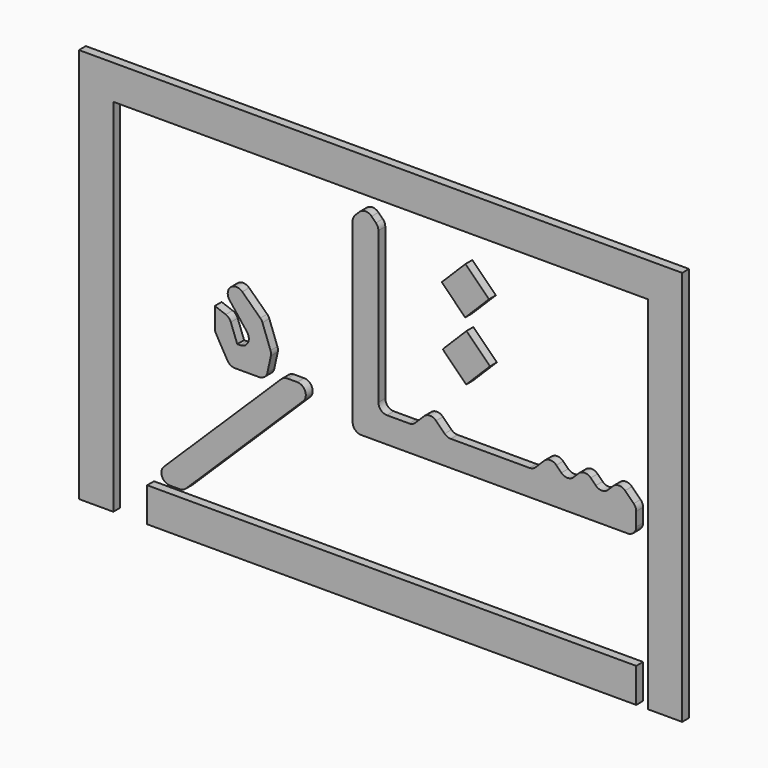
from build123d import *

# Parameters (mm, degrees)
F1_DEPTH = 5
F0_W     = 310.97637631
F0_H     = 20
F0_W_2   = 284.5448851585
F2_SCALE = 0.5


with BuildPart() as f1:
    # F0 (on Front) → F1 (new body)
    with BuildSketch(Plane.XZ):
        with BuildLine():
            Line((0, -10), (0, -2.0710678119))
            ThreePointArc((0, -2.0710678119), (-0.3806023374, -0.15765065), (-1.4644660941, 1.4644660941))
            Line((-1.4644660941, 1.4644660941), (-6.4644660941, 6.4644660941))
            ThreePointArc((-6.4644660941, 6.4644660941), (-10, 7.9289321881), (-13.5355339059, 6.4644660941))
            Line((-13.5355339059, 6.4644660941), (-16.4644660941, 3.5355339059))
            ThreePointArc((-16.4644660941, 3.5355339059), (-20, 2.0710678119), (-23.5355339059, 3.5355339059))
            Line((-23.5355339059, 3.5355339059), (-26.4644660941, 6.4644660941))
            ThreePointArc((-26.4644660941, 6.4644660941), (-30, 7.9289321881), (-33.5355339059, 6.4644660941))
            Line((-33.5355339059, 6.4644660941), (-36.4644660941, 3.5355339059))
            ThreePointArc((-36.4644660941, 3.5355339059), (-40, 2.0710678119), (-43.5355339059, 3.5355339059))
            Line((-43.5355339059, 3.5355339059), (-46.4644660941, 6.4644660941))
            ThreePointArc((-46.4644660941, 6.4644660941), (-50, 7.9289321881), (-53.5355339059, 6.4644660941))
            Line((-53.5355339059, 6.4644660941), (-58.5355339059, 1.4644660941))
            ThreePointArc((-58.5355339059, 1.4644660941), (-60.15765065, 0.3806023374), (-62.0710678119, 0))
            Line((-62.0710678119, 0), (-107.9289321881, 0))
            ThreePointArc((-107.9289321881, 0), (-109.84234935, 0.3806023374), (-111.4644660941, 1.4644660941))
            Line((-111.4644660941, 1.4644660941), (-116.4644660941, 6.4644660941))
            ThreePointArc((-116.4644660941, 6.4644660941), (-120, 7.9289321881), (-123.5355339059, 6.4644660941))
            Line((-123.5355339059, 6.4644660941), (-128.5355339059, 1.4644660941))
            ThreePointArc((-128.5355339059, 1.4644660941), (-130.15765065, 0.3806023374), (-132.0710678119, 0))
            Line((-132.0710678119, 0), (-145, 0))
            ThreePointArc((-145, 0), (-148.5355339059, 1.4644660941), (-150, 5))
            Line((-150, 5), (-150, 92.9289321881))
            ThreePointArc((-150, 92.9289321881), (-150.3806023374, 94.84234935), (-151.4644660941, 96.4644660941))
            Line((-151.4644660941, 96.4644660941), (-153.9644660941, 98.9644660941))
            ThreePointArc((-153.9644660941, 98.9644660941), (-157.5, 100.4289321881), (-161.0355339059, 98.9644660941))
            Line((-161.0355339059, 98.9644660941), (-163.5355339059, 96.4644660941))
            ThreePointArc((-163.5355339059, 96.4644660941), (-164.6193976626, 94.84234935), (-165, 92.9289321881))
            Line((-165, 92.9289321881), (-165, -10))
            ThreePointArc((-165, -10), (-163.5355339059, -13.5355339059), (-160, -15))
            Line((-160, -15), (-5, -15))
            ThreePointArc((-5, -15), (-1.4644660941, -13.5355339059), (0, -10))
        make_face()
    extrude(amount=F1_DEPTH)


with BuildPart() as f1b:
    # F0 (on Front) → F1, piece 2 (new body)
    with BuildSketch(Plane.XZ):
        with BuildLine():
            ThreePointArc((-193.7254233377, -8.5676432473), (-192.6004753719, -3.1076755348), (-197.2285536036, 0))
            Line((-197.2285536036, 0), (-202.9556044966, 0))
            ThreePointArc((-202.9556044966, 0), (-204.8479289618, -0.3719217683), (-206.4587347625, -1.4323567527))
            Line((-206.4587347625, -1.4323567527), (-274.7627281037, -68.501222602))
            ThreePointArc((-274.7627281037, -68.501222602), (-275.8876760695, -73.9611903145), (-271.2595978379, -77.0688658493))
            Line((-271.2595978379, -77.0688658493), (-265.5325469448, -77.0688658493))
            ThreePointArc((-265.5325469448, -77.0688658493), (-263.6402224796, -76.696944081), (-262.029416679, -75.6365090967))
            Line((-262.029416679, -75.6365090967), (-193.7254233377, -8.5676432473))
        make_face()
    extrude(amount=F1_DEPTH)


with BuildPart() as f1c:
    # F0 (on Front) → F1, piece 3 (new body)
    with BuildSketch(Plane.XZ):
        with BuildLine():
            Line((-218.7008427913, 25.7752162691), (-229.2070842299, 35.8678698686))
            ThreePointArc((-229.2070842299, 35.8678698686), (-236.021967756, 35.9729470347), (-236.6101356246, 29.1826792018))
            Line((-236.6101356246, 29.1826792018), (-226.4459441794, 16.1805180131))
            ThreePointArc((-226.4459441794, 16.1805180131), (-225.890873637, 10.9098869907), (-230.3851467959, 8.1011215225))
            Line((-230.3851467959, 8.1011215225), (-232.1372330189, 8.1011215225))
            Line((-232.1372330189, 8.1011215225), (-235.87300241, 18.1410032942))
            ThreePointArc((-235.87300241, 18.1410032942), (-237.0320287136, 19.9412995895), (-238.8378386273, 21.0917165917))
            Line((-238.8378386273, 21.0917165917), (-245.1861649752, 23.4194360673))
            Line((-245.1861649752, 23.4194360673), (-245.1861649752, 11.9873284513))
            ThreePointArc((-245.1861649752, 11.9873284513), (-245.0173826519, 10.6991763796), (-244.5224306712, 9.4979912276))
            Line((-244.5224306712, 9.4979912276), (-237.8336253269, -2.1534784428))
            ThreePointArc((-237.8336253269, -2.1534784428), (-236.0026853464, -3.9911890648), (-233.4973596309, -4.6641412191))
            Line((-233.4973596309, -4.6641412191), (-219.4370961652, -4.6641412191))
            ThreePointArc((-219.4370961652, -4.6641412191), (-216.2963111363, -3.5545742801), (-214.5494905996, -0.7183289799))
            Line((-214.5494905996, -0.7183289799), (-212.5863872862, 8.3833462982))
            ThreePointArc((-212.5863872862, 8.3833462982), (-212.4863357749, 9.7886421375), (-212.7822776415, 11.1660618674))
            Line((-212.7822776415, 11.1660618674), (-217.4729763592, 23.8979499014))
            ThreePointArc((-217.4729763592, 23.8979499014), (-217.9802754518, 24.9063294265), (-218.7008427913, 25.7752162691))
        make_face()
    extrude(amount=F1_DEPTH)


with BuildPart() as f1d:
    # F0 (on Front) → F1, piece 4 (new body)
    with BuildSketch(Plane.XZ):
        Polygon((-85.6691618817, 78.7073502742), (-99.3316528824, 92.3698412749), (-113.1628155708, 78.5386785865), (-99.5003245701, 64.8761875858), align=None)
    extrude(amount=F1_DEPTH)


with BuildPart() as f1e:
    # F0 (on Front) → F1, piece 5 (new body)
    with BuildSketch(Plane.XZ):
        Polygon((-85.0975868729, 44.5565132919), (-98.7600778736, 58.2190042926), (-112.591240562, 44.3878416041), (-98.9287495613, 30.7253506035), align=None)
    extrude(amount=F1_DEPTH)


with BuildPart() as f1f:
    # F0 (on Front) → F1, piece 6 (new body)
    with BuildSketch(Plane.XZ):
        Polygon((-324.2362141609, 128.7761288881), (-324.2362141609, -101.2238711119), (-304.2362141609, -101.2238711119), (-304.2362141609, 108.7761288881), (-304.2362141609, 128.7761288881), align=None)
        with Locations((-148.7480260059, 118.7761288881)):
            Rectangle(F0_W, F0_H)
        Polygon((6.7401621491, 128.7761288881), (6.7401621491, 108.7761288881), (6.7401621491, -101.2238711119), (26.7401621491, -101.2238711119), (26.7401621491, 128.7761288881), align=None)
    extrude(amount=F1_DEPTH)


with BuildPart() as f1g:
    # F0 (on Front) → F1, piece 7 (new body)
    with BuildSketch(Plane.XZ):
        with Locations((-142.2724425793, -91.2238711119)):
            Rectangle(F0_W_2, F0_H)
    extrude(amount=F1_DEPTH)


with BuildPart() as f1f_1:
    # F2: moved
    add(f1f.part.scale(F2_SCALE))


with BuildPart() as f1_1:
    # F2: moved
    add(f1.part.scale(F2_SCALE))


with BuildPart() as f1d_1:
    # F2: moved
    add(f1d.part.scale(F2_SCALE))


with BuildPart() as f1e_1:
    # F2: moved
    add(f1e.part.scale(F2_SCALE))


with BuildPart() as f1c_1:
    # F2: moved
    add(f1c.part.scale(F2_SCALE))


with BuildPart() as f1b_1:
    # F2: moved
    add(f1b.part.scale(F2_SCALE))


with BuildPart() as f1g_1:
    # F2: moved
    add(f1g.part.scale(F2_SCALE))


solid = Compound([f1f_1.part, f1_1.part, f1d_1.part, f1e_1.part, f1c_1.part, f1b_1.part, f1g_1.part])
